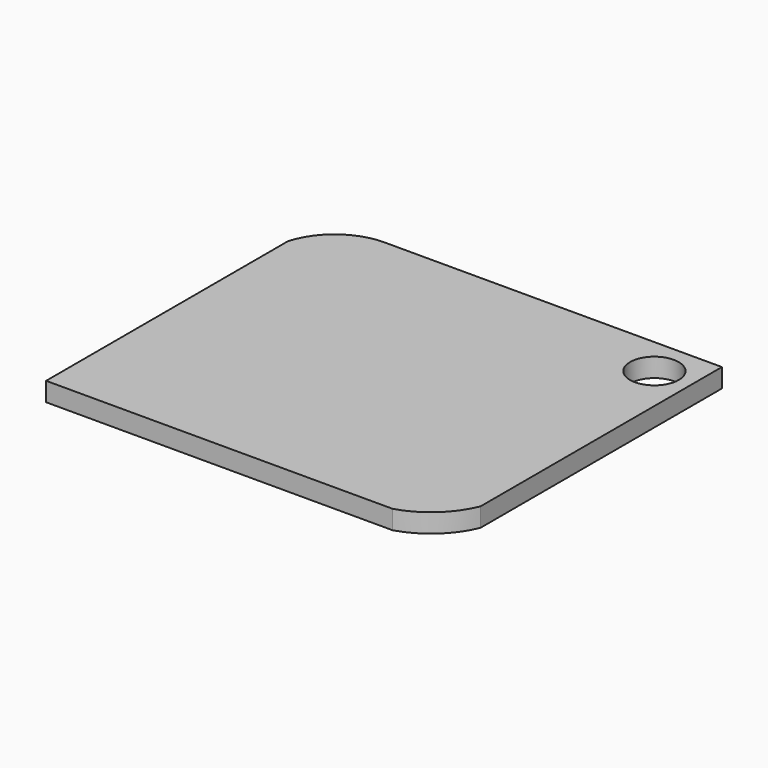
from build123d import *

# Parameters (mm, degrees)
F0_W     = 400
F0_H     = 350
F1_DEPTH = 19
F3_DEPTH = 19.001
F5_DEPTH = 19.001
F6_R     = 24.466171
F7_DEPTH = 19.001


with BuildPart() as f1:
    # F0 (on Top) → F1 (new body)
    with BuildSketch(Plane.XY):
        Rectangle(F0_W, F0_H)
    extrude(amount=F1_DEPTH)

    # F2 (on face) → F3 (cut, through all)
    with BuildSketch(Plane.XY.offset(19)):
        with BuildLine():
            ThreePointArc((-200, 129.103959), (-177.466349, 162.178838), (-139.554203, 175))
            Line((-139.554203, 175), (-200, 175))
            Line((-200, 175), (-200, 129.103959))
        make_face()
    extrude(amount=-F3_DEPTH, mode=Mode.SUBTRACT)

    # F4 (on face) → F5 (cut, through all)
    with BuildSketch(Plane.XY.offset(19)):
        with BuildLine():
            ThreePointArc((200, -128.668547), (179.591152, -157.638715), (148.698151, -175))
            Line((148.698151, -175), (200, -175))
            Line((200, -175), (200, -128.668547))
        make_face()
    extrude(amount=-F5_DEPTH, mode=Mode.SUBTRACT)

    # F6 (on face) → F7 (cut, through all)
    with BuildSketch(Plane(origin=(0, 0, 0), x_dir=(1, 0, 0), z_dir=(0, 0, -1))):
        with Locations((162.81534, -136.567061)):
            Circle(F6_R)
    extrude(amount=-F7_DEPTH, mode=Mode.SUBTRACT)


solid = f1.part
